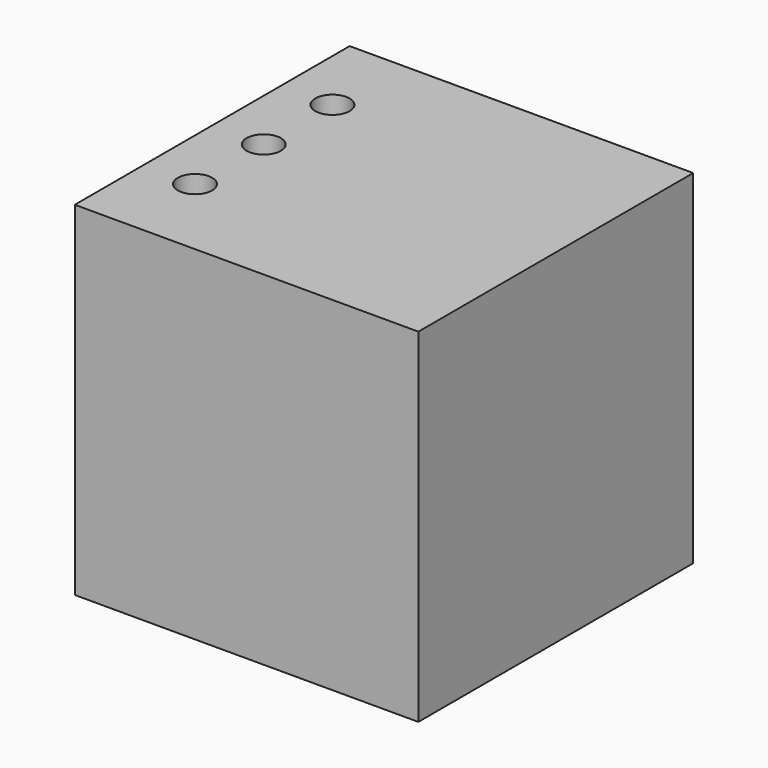
from build123d import *

# Parameters (mm, degrees)
F0_W     = 100
F0_H     = 100
F1_DEPTH = 100
F2_R     = 5
F3_DEPTH = 100


with BuildPart() as f1:
    # F0 (on Right) → F1 (new body)
    with BuildSketch(Plane.YZ):
        with Locations((50, 50)):
            Rectangle(F0_W, F0_H)
    extrude(amount=F1_DEPTH)

    # F2 (on face) → F3 (cut)
    with BuildSketch(Plane.XY.offset(100)):
        with Locations((15, 25)):
            Circle(F2_R)
        with Locations((142.386928, 39.02828)):
            Circle(F2_R)
        with Locations((15, 50)):
            Circle(F2_R)
        with Locations((15, 75)):
            Circle(F2_R)
    extrude(amount=-F3_DEPTH, mode=Mode.SUBTRACT)


solid = f1.part
